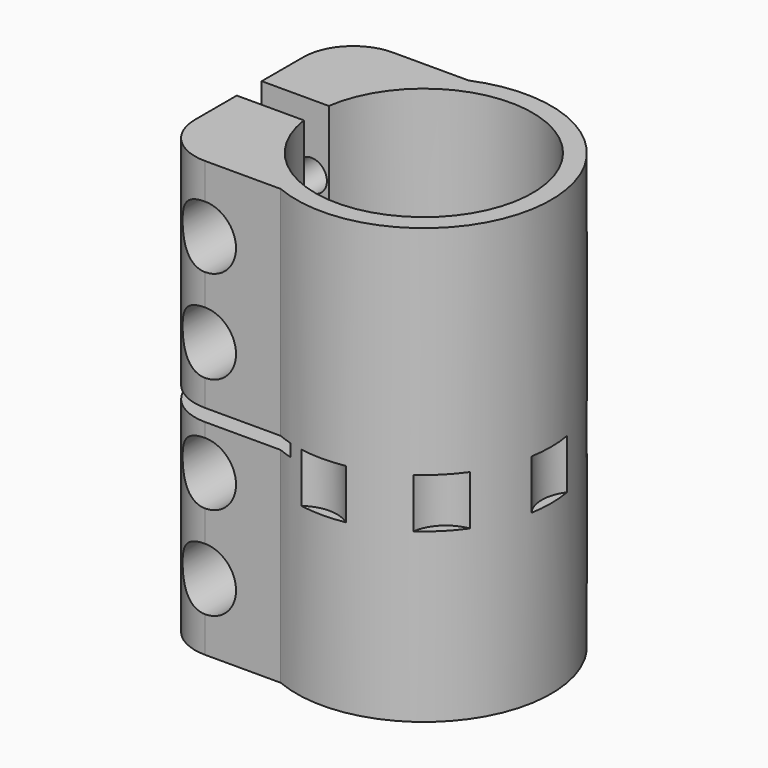
from build123d import *

# Parameters (mm, degrees)
F1_DEPTH       = 35
F3_D           = 5
F3_START       = 1.7550021
F3_CBORE_D     = 10
F3_CBORE_DEPTH = 8
F4_W           = 22.4
F4_H           = 2
F5_DEPTH       = 25
F6_R           = 6
F7_DEPTH       = 8


with BuildPart() as f1:
    # F0 (on Top) → F1 (new body, symmetric)
    with BuildSketch(Plane.XY):
        with BuildLine():
            ThreePointArc((-17.3192642082, 2.5086026559), (17.5, 0), (-17.3192642082, -2.5086026559))
            Line((-17.3192642082, -2.5086026559), (-20.3459311096, -2.5086026559))
            ThreePointArc((-20.3459311096, -2.5086026559), (-16.3392263155, -12.3806172468), (-7.9192642082, -18.9086026559))
            ThreePointArc((-7.9192642082, -18.9086026559), (20.5, 0), (-7.9192642082, 18.9086026559))
            Line((-7.9192642082, 18.9086026559), (-20.1192642082, 18.9086026559))
            ThreePointArc((-20.1192642082, 18.9086026559), (-25.7761184577, 16.5654569054), (-28.1192642082, 10.9086026559))
            Line((-28.1192642082, 10.9086026559), (-28.1192642082, 2.5086026559))
            Line((-28.1192642082, 2.5086026559), (-17.3192642082, 2.5086026559))
        make_face()
        with BuildLine():
            ThreePointArc((-7.9192642082, -18.9086026559), (-16.3392263155, -12.3806172468), (-20.3459311096, -2.5086026559))
            Line((-20.3459311096, -2.5086026559), (-28.1192642082, -2.5086026559))
            Line((-28.1192642082, -2.5086026559), (-28.1192642082, -10.9086026559))
            ThreePointArc((-28.1192642082, -10.9086026559), (-25.7761184577, -16.5654569054), (-20.1192642082, -18.9086026559))
            Line((-20.1192642082, -18.9086026559), (-7.9192642082, -18.9086026559))
        make_face()
    extrude(amount=F1_DEPTH, both=True)

    # F3 (through all)
    # its depths count from where the whole tool has entered the part; down to there all is cleared
    with Locations(Plane.XZ.offset(18.9086026559).offset(-F3_START)):
        with Locations((-20.1192642082, -24.25), (-20.1192642082, -9.25), (-20.1192642082, 9.25), (-20.1192642082, 24.25)):
            CounterBoreHole(F3_D / 2, F3_CBORE_D / 2, F3_CBORE_DEPTH)

    # F4 (on Front) → F5 (cut, symmetric)
    with BuildSketch(Plane.XZ):
        with Locations((-16.8941898715, -1)):
            Rectangle(F4_W, F4_H)
    extrude(amount=F5_DEPTH, both=True, mode=Mode.SUBTRACT)

    # F6 (on Top) → F7 (cut)
    with BuildSketch(Plane.XY):
        with Locations((0, -25)):
            Circle(F6_R)
        with Locations((17.6776695297, -17.6776695297)):
            Circle(F6_R)
        with Locations((25, 0)):
            Circle(F6_R)
        with Locations((17.6776695297, 17.6776695297)):
            Circle(F6_R)
        with Locations((0, 25)):
            Circle(F6_R)
    extrude(amount=-F7_DEPTH, mode=Mode.SUBTRACT)


solid = f1.part
